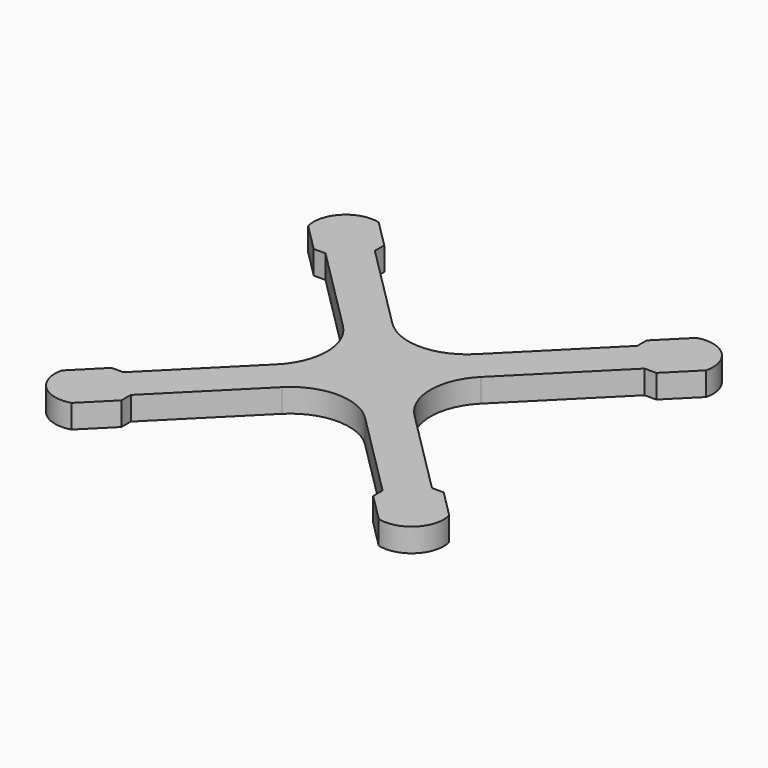
from build123d import *

# Parameters (mm, degrees)
F0_W     = 6
F0_H     = 6
F1_DEPTH = 3


with BuildPart() as f1:
    # F0 (on Top) → F1 (new body)
    with BuildSketch(Plane.XY):
        with BuildLine():
            ThreePointArc((-20, 25), (-23.93934, 23.93934), (-25, 20))
            Line((-25, 20), (-21.464466, 16.464466))
            Line((-21.464466, 16.464466), (-19.964466, 16.464466))
            Line((-19.964466, 16.464466), (-8.803301, 5.303301))
            ThreePointArc((-8.803301, 5.303301), (-6.606504, -0.093939), (-8.935475, -5.435475))
            Line((-8.935475, -5.435475), (-19.65592, -16.15592))
            Line((-19.65592, -16.15592), (-21.15592, -16.15592))
            Line((-21.15592, -16.15592), (-24.691454, -19.691454))
            ThreePointArc((-24.691454, -19.691454), (-23.527562, -23.603766), (-19.559187, -24.559187))
            Line((-19.559187, -24.559187), (-16.023653, -21.023653))
            Line((-16.023653, -21.023653), (-16.023653, -19.523653))
            Line((-16.023653, -19.523653), (-5.303208, -8.803208))
            ThreePointArc((-5.303208, -8.803208), (6.6e-05, -6.606602), (5.303301, -8.803301))
            Line((5.303301, -8.803301), (16.464466, -19.964466))
            Line((16.464466, -19.964466), (16.464466, -21.464466))
            Line((16.464466, -21.464466), (20, -25))
            ThreePointArc((20, -25), (23.93934, -23.93934), (25, -20))
            Line((25, -20), (21.464466, -16.464466))
            Line((21.464466, -16.464466), (19.964466, -16.464466))
            Line((19.964466, -16.464466), (8.803301, -5.303301))
            ThreePointArc((8.803301, -5.303301), (6.606602, 0), (8.803301, 5.303301))
            Line((8.803301, 5.303301), (20.405279, 16.905279))
            Line((20.405279, 16.905279), (21.905279, 16.905279))
            Line((21.905279, 16.905279), (25.440813, 20.440813))
            ThreePointArc((25.440813, 20.440813), (24.276921, 24.353125), (20.308546, 25.308546))
            Line((20.308546, 25.308546), (16.773012, 21.773012))
            Line((16.773012, 21.773012), (16.773012, 20.273012))
            Line((16.773012, 20.273012), (5.303301, 8.803301))
            ThreePointArc((5.303301, 8.803301), (0, 6.606602), (-5.303301, 8.803301))
            Line((-5.303301, 8.803301), (-16.464466, 19.964466))
            Line((-16.464466, 19.964466), (-16.464466, 21.464466))
            Line((-16.464466, 21.464466), (-20, 25))
        make_face()
        Rectangle(F0_W, F0_H, mode=Mode.SUBTRACT)
        Rectangle(F0_W, F0_H)
    extrude(amount=F1_DEPTH)


solid = f1.part
